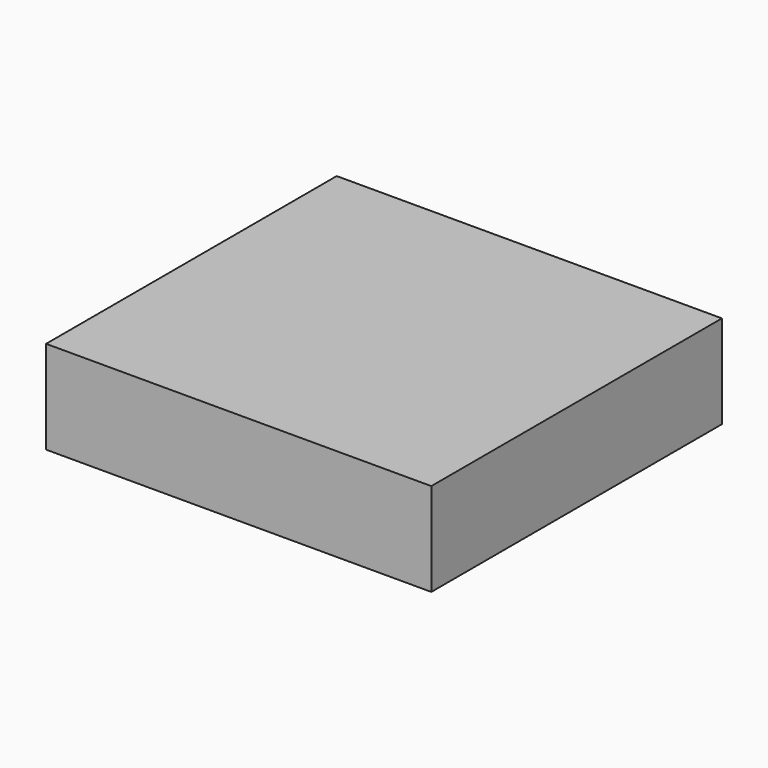
from build123d import *

# Parameters (mm, degrees)
F2_W     = 34.4924107194
F2_H     = 39.9694368243
F6_R     = 9.1678743737
F8_W     = 368.5471117496
F8_H     = 347.5418388844
F9_DEPTH = 89.154


with BuildPart() as f3:
    # F3: sweep along a path in F0
    with BuildLine(Plane.XY) as f3_path:
        Line((-37.1106676757, -57.3247820139), (0, 39.8538187146))
        Line((0, 39.8538187146), (-42.0641675591, 72.9140937328))
        Line((-42.0641675591, 72.9140937328), (-42.0641675591, 105.7876199484))
    # F2 (on line) → F3 (sweep)
    with BuildSketch(Plane(origin=(-23.8282636841, -62.3970806143, 0), x_dir=(-0.9341988082, 0.3567528371, 0), z_dir=(0.3567528371, 0.9341988082, 0))):
        with Locations((-17.2462053597, 19.9847184122)):
            Rectangle(F2_W, F2_H)
    sweep(path=f3_path.line, transition=Transition.RIGHT)

    # F7: sweep along a path in F4
    with BuildLine(Plane(origin=(0, 0, 0), x_dir=(-0.3567528371, -0.9341988082, 0), z_dir=(-0.9341988082, 0.3567528371, 0))) as f7_path:
        Line((0, 15.3567641973), (36.2190231681, 39.9694368243))
        Line((36.2190231681, 39.9694368243), (59.6153741626, 55.8684500313))
    # F6 (on line) → F7 (sweep, cut)
    with BuildSketch(Plane(origin=(-15.4680950091, -40.5050063247, 29.4639817913), x_dir=(0.9554756476, -0.2386174907, 0.1735741341), z_dir=(-0.2950699695, -0.7726750432, 0.5620560387))):
        with Locations((10.3273540735, 12.5466436148)):
            Circle(F6_R)
    sweep(path=f7_path.line, mode=Mode.SUBTRACT)

    # F8 (on Top) → F9 (join)
    with BuildSketch(Plane.XY):
        with Locations((13.9467567205, -12.1927708387)):
            Rectangle(F8_W, F8_H)
    extrude(amount=F9_DEPTH)


solid = f3.part
